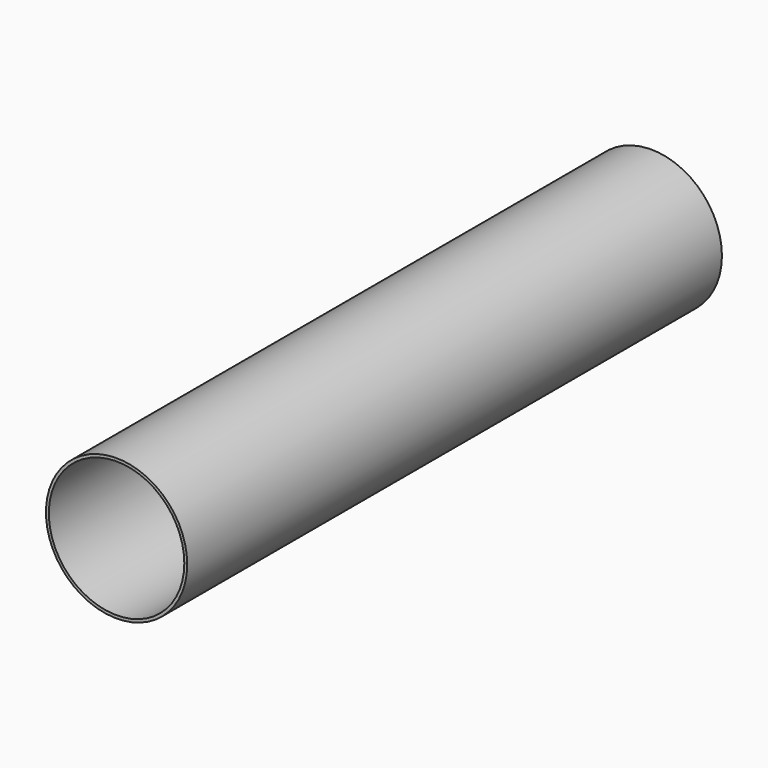
from build123d import *

# Parameters (mm, degrees)
F0_R     = 206.375
F0_R_2   = 197.9422
F1_DEPTH = 1953.133
F3_D     = 76.2
F3_DEPTH = 206.376


with BuildPart() as f1:
    # F0 (on Front) → F1 (new body)
    with BuildSketch(Plane.XZ):
        Circle(F0_R)
        Circle(F0_R_2, mode=Mode.SUBTRACT)
    extrude(amount=F1_DEPTH)

    # F3 (through all, one way)
    with BuildSketch(Plane.YZ):
        with Locations((-304.8, 0)):
            Circle(F3_D / 2)
    extrude(amount=-F3_DEPTH, mode=Mode.SUBTRACT)


solid = f1.part
